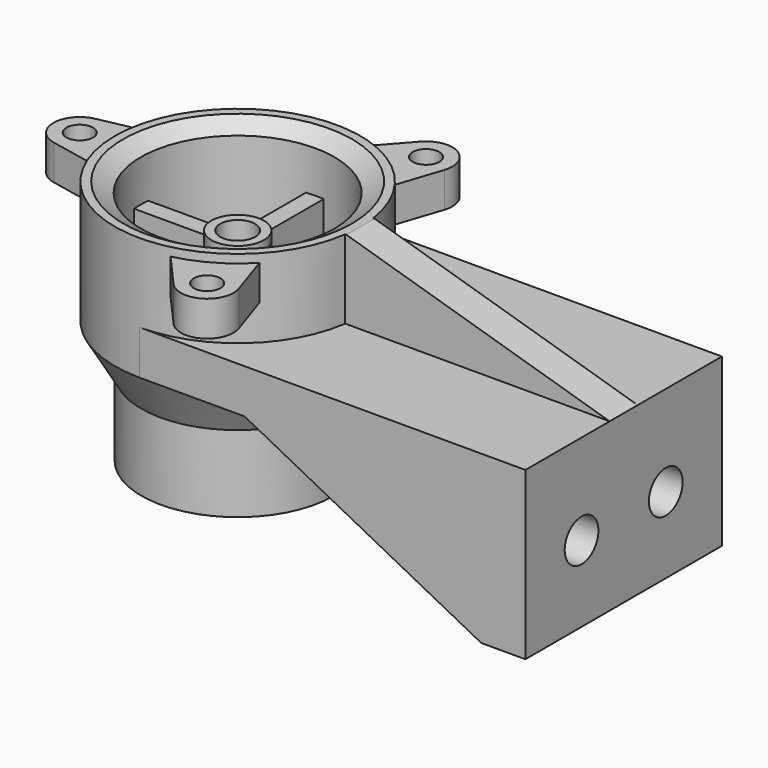
from build123d import *

# Parameters (mm, degrees)
PAD_DEPTH            = 44.45
SKETCH002_R          = 35.052
POCKET_DEPTH         = 16.002
SKETCH003_R          = 4.826
PAD001_DEPTH         = 12.7
POLARPATTERN_COUNT   = 3
PAD002_DEPTH         = 9.525
SKETCH005_R          = 9.525
PAD003_DEPTH         = 12.7
SKETCH006_R          = 6.35
POCKET001_DEPTH      = 12.7
SKETCH007_W          = 95.705909
SKETCH007_H          = 12.7
PAD004_DEPTH         = 28.448
POCKET002_DEPTH      = 59.019352
POCKET002_DEPTH_BACK = -59.019352
SKETCH009_R          = 7.62
POCKET003_DEPTH      = 16.002


with BuildPart() as part:
    # Sketch → Pad (new body, symmetric)
    with BuildSketch(Plane.XZ):
        Polygon((38.1, -16.002), (123.698, -60.325), (139.7, -60.325), (139.7, 0), (38.1, 0), (0, 0), (0, -16.002), align=None)
    extrude(amount=PAD_DEPTH, both=True)

    # Sketch001 → Revolution (revolve)
    with BuildSketch(Plane.XZ):
        Polygon((44.45, 28.448), (44.45, -16.002), (34.798, -32.719754), (34.798, -60.452), (25.4, -60.452), (25.4, -32.719754), (35.052, -16.002), (35.052, 24.781826), (41.402, 28.448), align=None)
    revolve(axis=Axis((0, 0, 0), (0, 0, 1)))

    # Sketch002 → Pocket (cut)
    with BuildSketch(Plane.XY):
        Circle(SKETCH002_R)
    extrude(amount=-POCKET_DEPTH, mode=Mode.SUBTRACT)

    # Sketch003 (on DatumPlane) → Pad001 (join)
    with BuildSketch(Plane.XY.offset(25.4)):
        with BuildLine():
            ThreePointArc((-59.059347, 9.331667), (-66.675, 1.8e-05), (-59.059383, -9.33166))
            Line((-42.597095, -12.7), (-59.059383, -9.33166))
            Line((-42.597095, 12.7), (-42.597095, -12.7))
            Line((-59.059347, 9.331667), (-42.597095, 12.7))
        make_face()
        with Locations((-57.15, 0)):
            Circle(SKETCH003_R, mode=Mode.SUBTRACT)
    pad001 = extrude(amount=-PAD001_DEPTH)

    # PolarPattern: Pad001 ×3 about axis
    polarpattern_axis = Axis((0, 0, 25.4), (0, 0, 1))
    for i in range(1, POLARPATTERN_COUNT):
        add(pad001.rotate(polarpattern_axis, i * 360 / POLARPATTERN_COUNT))

    # Sketch004 (on DatumPlane) → Pad002 (join, symmetric)
    with BuildSketch(Plane.XY.offset(0.125)):
        Polygon((-35.052, 3.175), (-3.175, 3.175), (-3.175, 35.052), (3.175, 35.052), (3.175, 3.175), (35.052, 3.175), (35.052, -3.175), (3.175, -3.175), (3.175, -35.052), (-3.175, -35.052), (-3.175, -3.175), (-35.052, -3.175), align=None)
    extrude(amount=PAD002_DEPTH, both=True)

    # Sketch005 (on DatumPlane) → Pad003 (join, symmetric)
    with BuildSketch(Plane.XY.offset(0.125)):
        Circle(SKETCH005_R)
    extrude(amount=PAD003_DEPTH, both=True)

    # Sketch006 (on DatumPlane) → Pocket001 (cut, symmetric)
    with BuildSketch(Plane.XY.offset(0.125)):
        Circle(SKETCH006_R)
    extrude(amount=POCKET001_DEPTH, both=True, mode=Mode.SUBTRACT)

    # Sketch007 → Pad004 (join)
    with BuildSketch(Plane.XY):
        with Locations((91.847045, 0)):
            Rectangle(SKETCH007_W, SKETCH007_H)
    extrude(amount=PAD004_DEPTH)

    # Sketch008 → Pocket002 (cut, two sides)
    with BuildSketch(Plane.XZ) as pocket002_sk:
        Polygon((44.45, 28.448), (139.7, 0), (139.7, 28.448), align=None)
    extrude(amount=-POCKET002_DEPTH, mode=Mode.SUBTRACT)
    extrude(pocket002_sk.sketch, amount=-POCKET002_DEPTH_BACK, mode=Mode.SUBTRACT)

    # Sketch009 (on DatumPlane) → Pocket003 (cut)
    with BuildSketch(Plane.YZ.offset(139.7)):
        with Locations((-19.05, -32.766)):
            Circle(SKETCH009_R)
        with Locations((19.05, -32.766)):
            Circle(SKETCH009_R)
    extrude(amount=-POCKET003_DEPTH, mode=Mode.SUBTRACT)


solid = part.part
